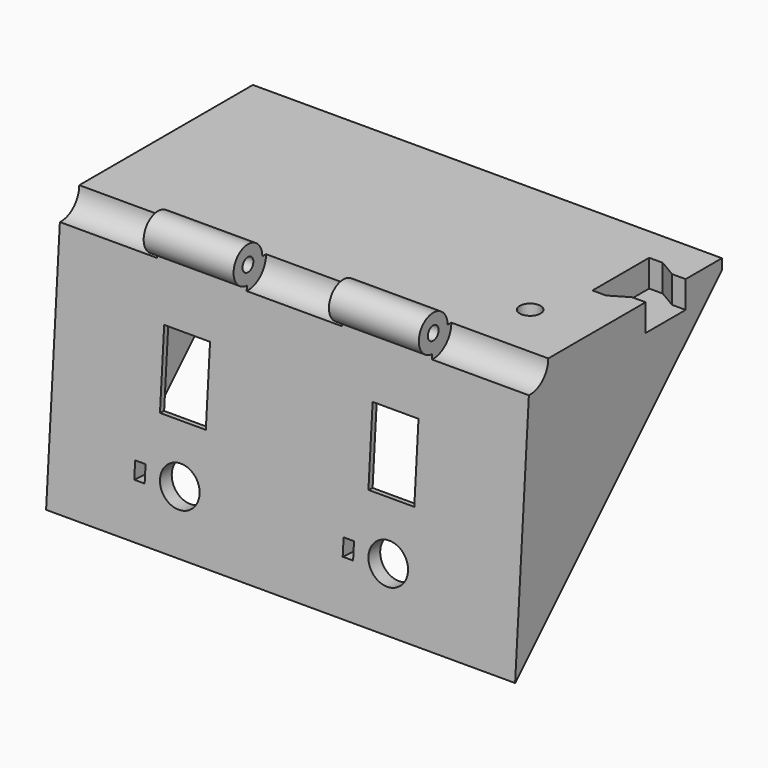
from build123d import *

# Parameters (mm, degrees)
PAD012_DEPTH    = 45
SKETCH023_R     = 3.45
PAD013_DEPTH    = 45
SKETCH024_W     = 18.6
SKETCH024_H     = 4.35
SKETCH024_W_2   = 18.3
SKETCH025_R     = 1.3
POCKET006_DEPTH = 45
POCKET007_DEPTH = 35
SKETCH027_R     = 2
POCKET008_DEPTH = 10
POCKET020_DEPTH = 5.2
SKETCH066_R     = 3.8
SKETCH066_W     = 8.8
SKETCH066_H     = 14.5
SKETCH066_W_2   = 2
SKETCH066_H_2   = 3.2
POCKET025_DEPTH = 3
SKETCH067_R     = 2
POCKET026_DEPTH = 13
SKETCH068_W     = 12
SKETCH068_H     = 19
POCKET027_DEPTH = 2


with BuildPart() as part:
    # Sketch022 → Pad012 (new body, symmetric)
    with BuildSketch(Plane.YZ):
        Polygon((0, 0), (-3.6088417733, -51.6088417733), (46, -2), (46, 0), align=None)
    extrude(amount=PAD012_DEPTH, both=True)

    # Sketch023 → Pad013 (join, symmetric)
    with BuildSketch(Plane.YZ):
        Circle(SKETCH023_R)
    extrude(amount=PAD013_DEPTH, both=True)

    # Sketch024 → Groove003 (revolve, cut)
    with BuildSketch(Plane.XZ):
        with Locations((-35.7, 2.175)):
            Rectangle(SKETCH024_W, SKETCH024_H)
        with Locations((0, 2.175)):
            Rectangle(SKETCH024_W_2, SKETCH024_H)
        with Locations((35.7, 2.175)):
            Rectangle(SKETCH024_W, SKETCH024_H)
    revolve(axis=Axis((0, 0, 0), (1, 0, 0)), mode=Mode.SUBTRACT)

    # Sketch025 → Pocket006 (cut, symmetric)
    with BuildSketch(Plane.YZ):
        Circle(SKETCH025_R)
    extrude(amount=POCKET006_DEPTH, both=True, mode=Mode.SUBTRACT)

    # Sketch026 → Pocket007 (cut, symmetric)
    with BuildSketch(Plane.YZ):
        Polygon((2, -12), (-1.4584733661, -61.4584733661), (57, -3), (11, -3), align=None)
    extrude(amount=POCKET007_DEPTH, both=True, mode=Mode.SUBTRACT)

    # Sketch027 (on Face5 of Pocket007) → Pocket008 (cut)
    with BuildSketch(Plane(origin=(0, 24, -24), x_dir=(0, 0.7071067812, 0.7071067812), z_dir=(0, 0.7071067812, -0.7071067812))):
        with Locations((5, 40)):
            Circle(SKETCH027_R)
        with Locations((-20, 40)):
            Circle(SKETCH027_R)
        with Locations((-20, -40)):
            Circle(SKETCH027_R)
        with Locations((5, -40)):
            Circle(SKETCH027_R)
    extrude(amount=-POCKET008_DEPTH, mode=Mode.SUBTRACT)

    # Sketch060 → Pocket020 (cut)
    with BuildSketch(Plane.XY):
        Polygon((45, 37.3), (42.4, 37.3), (39, 39.3), (36.4, 39.3), (36.4, 25.7), (39, 25.7), (42.4, 27.7), (45, 27.7), align=None)
    extrude(amount=-POCKET020_DEPTH, mode=Mode.SUBTRACT)

    # Sketch066 (on DatumPlane) → Pocket025 (cut)
    with BuildSketch(Plane(origin=(0, 0, 0), x_dir=(1, 0, 0), z_dir=(0, -0.9975640503, 0.0697564737))):
        with Locations((-20, -40)):
            Circle(SKETCH066_R)
        with Locations((20, -40)):
            Circle(SKETCH066_R)
        with Locations((-20, -22)):
            Rectangle(SKETCH066_W, SKETCH066_H)
        with Locations((20, -22)):
            Rectangle(SKETCH066_W, SKETCH066_H)
        with Locations((12.35, -40)):
            Rectangle(SKETCH066_W_2, SKETCH066_H_2)
        with Locations((-27.65, -40)):
            Rectangle(SKETCH066_W_2, SKETCH066_H_2)
    extrude(amount=-POCKET025_DEPTH, mode=Mode.SUBTRACT)

    # Sketch067 → Pocket026 (cut)
    with BuildSketch(Plane.XY):
        with Locations((33, 15)):
            Circle(SKETCH067_R)
    extrude(amount=-POCKET026_DEPTH, mode=Mode.SUBTRACT)

    # Sketch068 (on DatumPlane) → Pocket027 (cut)
    with BuildSketch(Plane(origin=(0, 2.9926921508, -0.2092694212), x_dir=(1, 0, 0), z_dir=(0, -0.9975640503, 0.0697564737))):
        with Locations((-20, -22)):
            Rectangle(SKETCH068_W, SKETCH068_H)
        with Locations((20, -22)):
            Rectangle(SKETCH068_W, SKETCH068_H)
    extrude(amount=POCKET027_DEPTH, mode=Mode.SUBTRACT)


solid = part.part
